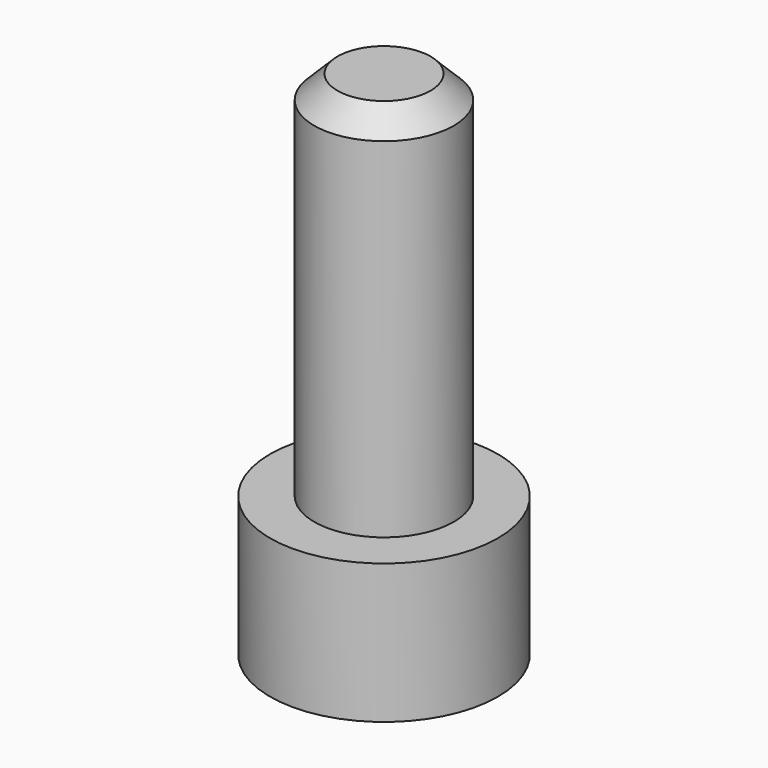
from build123d import *

# Parameters (mm, degrees)
F0_R     = 3
F1_DEPTH = 16
F2_R     = 4.9
F3_DEPTH = 6
F5_DEPTH = 4
F6_SIZE  = 1


with BuildPart() as f1:
    # F0 (on Top) → F1 (new body)
    with BuildSketch(Plane.XY):
        Circle(F0_R)
    extrude(amount=F1_DEPTH)

    # F2 (on face) → F3 (join)
    with BuildSketch(Plane(origin=(0, 0, 0), x_dir=(1, 0, 0), z_dir=(0, 0, -1))):
        Circle(F2_R)
    extrude(amount=F3_DEPTH)

    # F4 (on face) → F5 (cut)
    with BuildSketch(Plane(origin=(0, 0, -6), x_dir=(1, 0, 0), z_dir=(0, 0, -1))):
        Polygon((1.443376, 2.5), (-1.443376, 2.5), (-2.886751, 0), (-1.443376, -2.5), (1.443376, -2.5), (2.886751, 0), align=None)
    extrude(amount=-F5_DEPTH, mode=Mode.SUBTRACT)

    # F6
    f6_edges = [f1.edges().sort_by_distance(p)[0] for p in [
        (-3, 0, 16),
    ]]
    chamfer(f6_edges, length=F6_SIZE)


solid = f1.part
